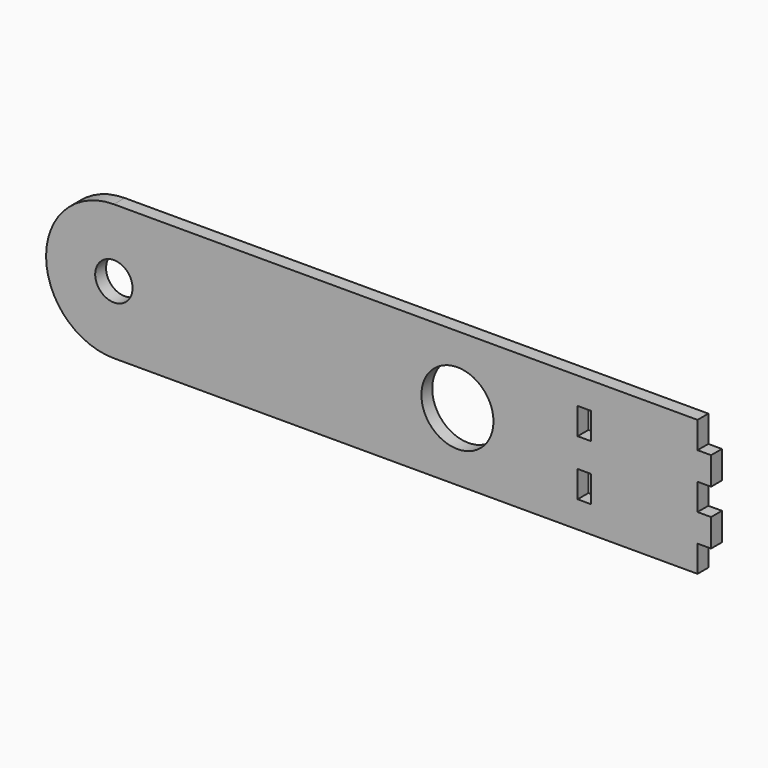
from build123d import *

# Parameters (mm, degrees)
F0_R     = 7
F0_R_2   = 13.5
F1_DEPTH = 5.08


with BuildPart() as f1:
    # F0 (on Front) → F1 (new body)
    with BuildSketch(Plane.XZ):
        with BuildLine():
            Line((0, 25.4), (-128.715, 25.4))
            ThreePointArc((-128.715, 25.4), (-154.115, 0), (-128.715, -25.4))
            Line((-128.715, -25.4), (0, -25.4))
            Line((0, -25.4), (45.035, -25.4))
            Line((45.035, -25.4), (45.035, -15.4))
            Line((45.035, -15.4), (45.035, -5.4))
            Line((45.035, -5.4), (45.035, 5.4))
            Line((45.035, 5.4), (45.035, 15.4))
            Line((45.035, 15.4), (45.035, 25.4))
            Line((45.035, 25.4), (0, 25.4))
        make_face()
        with Locations((-128.715, 0)):
            Circle(F0_R, mode=Mode.SUBTRACT)
        Circle(F0_R_2, mode=Mode.SUBTRACT)
        Polygon((89.955, 25.4), (45.035, 25.4), (45.035, 15.4), (50.115, 15.4), (50.115, 5.4), (45.035, 5.4), (45.035, -5.4), (50.115, -5.4), (50.115, -15.4), (45.035, -15.4), (45.035, -25.4), (89.955, -25.4), (89.955, -15.4), (95.035, -15.4), (95.035, -5), (89.955, -5), (89.955, 5), (95.035, 5), (95.035, 15.4), (89.955, 15.4), align=None)
    extrude(amount=F1_DEPTH)


solid = f1.part
